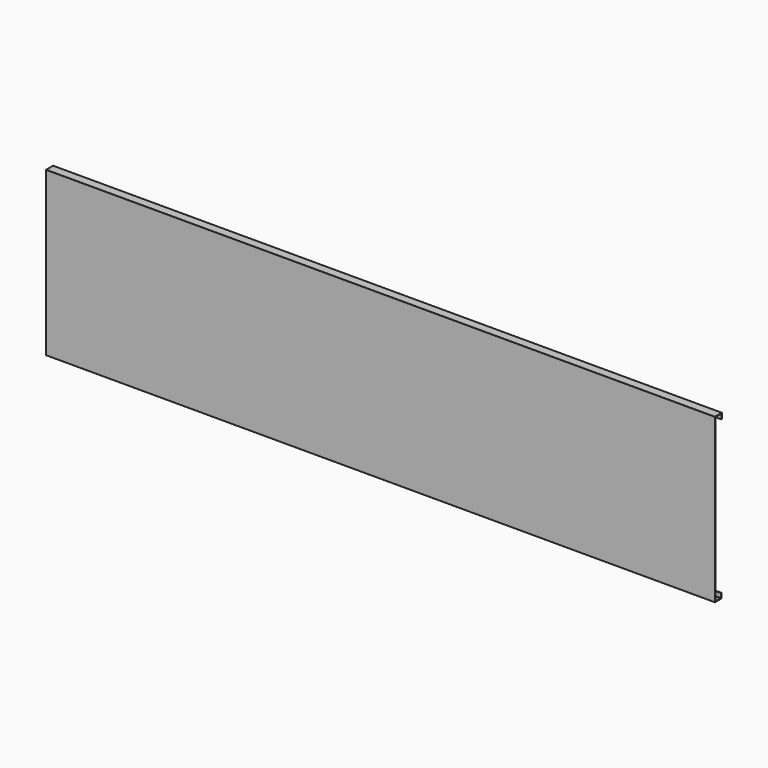
from build123d import *

# Parameters (mm, degrees)
F1_DEPTH = 1676.4


with BuildPart() as f1:
    # F0 (on Right) → F1 (new body)
    with BuildSketch(Plane.YZ):
        with BuildLine():
            ThreePointArc((1.17475, -203.2), (0.905342, -203.088408), (0.79375, -202.819))
            Line((0.79375, -202.819), (0.79375, 202.819))
            ThreePointArc((0.79375, 202.819), (0.905342, 203.088408), (1.17475, 203.2))
            Line((1.17475, 203.2), (19.46275, 203.2))
            ThreePointArc((19.46275, 203.2), (19.732158, 203.088408), (19.84375, 202.819))
            Line((19.84375, 202.819), (19.84375, 190.5))
            Line((19.84375, 190.5), (21.420548, 190.5))
            Line((21.420548, 190.5), (21.420548, 204.3938))
            ThreePointArc((21.420548, 204.3938), (21.308955, 204.663208), (21.039548, 204.7748))
            Line((21.039548, 204.7748), (19.84375, 204.7748))
            Line((19.84375, 204.7748), (-0.41275, 204.7748))
            ThreePointArc((-0.41275, 204.7748), (-0.682158, 204.663208), (-0.79375, 204.3938))
            Line((-0.79375, 204.3938), (-0.79375, -203.2))
            Line((-0.79375, -203.2), (-0.79375, -204.404064))
            ThreePointArc((-0.79375, -204.404064), (-0.682158, -204.673472), (-0.41275, -204.785064))
            Line((-0.41275, -204.785064), (19.46275, -204.785064))
            ThreePointArc((19.46275, -204.785064), (19.732158, -204.673472), (19.84375, -204.404064))
            Line((19.84375, -204.404064), (19.84375, -192.091823))
            Line((19.84375, -192.091823), (17.939787, -191.92116))
            Line((17.939787, -191.92116), (17.939787, -202.819))
            ThreePointArc((17.939787, -202.819), (17.828195, -203.088408), (17.558787, -203.2))
            Line((17.558787, -203.2), (1.17475, -203.2))
        make_face()
    extrude(amount=F1_DEPTH)


solid = f1.part
